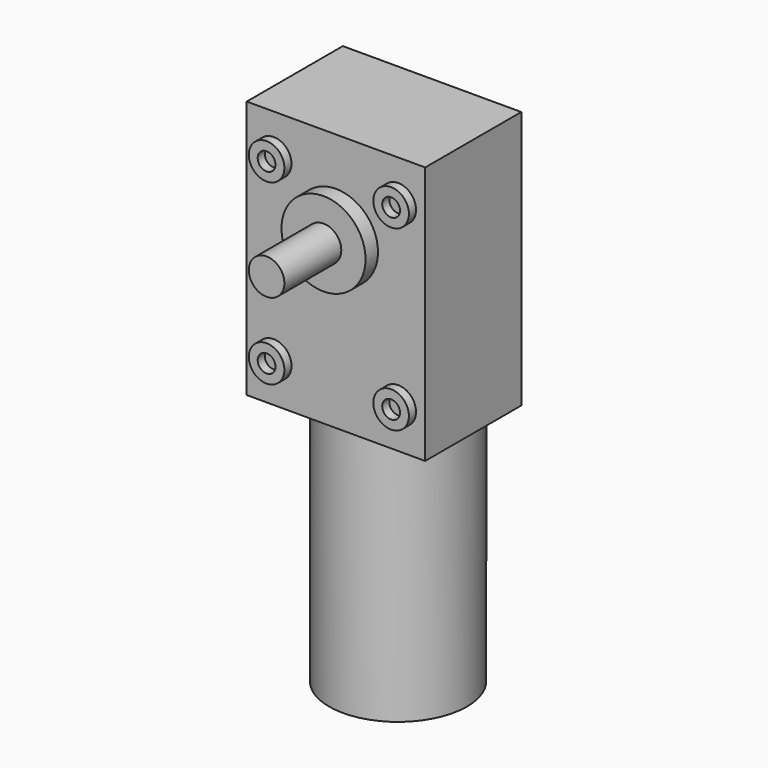
from build123d import *

# Parameters (mm, degrees)
F0_R      = 15.5
F1_DEPTH  = 57.2
F3_DEPTH  = 58.1
F4_R      = 9.45
F5_DEPTH  = 3.5
F5_FACE_R = 9.45
F6_DEPTH  = 34
F7_R      = 4
F8_DEPTH  = 16
F9_R      = 4
F9_R_2    = 2
F10_DEPTH = 2
F11_DEPTH = 29
F12_R     = 6
F13_DEPTH = 2


with BuildPart() as f1:
    # F0 (on Top) → F1 (new body)
    with BuildSketch(Plane.XY):
        Circle(F0_R)
    extrude(amount=F1_DEPTH)

    # F2 (on face) → F3 (join)
    with BuildSketch(Plane.XY.offset(57.2)):
        with BuildLine():
            Line((-12.208501, 9.55), (-20.06, 9.55))
            Line((-20.06, 9.55), (-20.06, -17.45))
            Line((-20.06, -17.45), (20.06, -17.45))
            Line((20.06, -17.45), (20.06, 9.55))
            Line((20.06, 9.55), (12.208501, 9.55))
            ThreePointArc((12.208501, 9.55), (14.65404, 5.050655), (15.5, 0))
            ThreePointArc((15.5, 0), (-5.050655, -14.65404), (-12.208501, 9.55))
        make_face()
        with BuildLine():
            Line((12.208501, 9.55), (-12.208501, 9.55))
            ThreePointArc((-12.208501, 9.55), (-5.050655, -14.65404), (15.5, 0))
            ThreePointArc((15.5, 0), (14.65404, 5.050655), (12.208501, 9.55))
        make_face()
    extrude(amount=F3_DEPTH)

    # F4 (on face) → F5 (join)
    with BuildSketch(Plane.XZ.offset(17.45)):
        with Locations((0, 95.1)):
            Circle(F4_R)
    extrude(amount=F5_DEPTH)

    # F5_face (on face) → F6 (join)
    with BuildSketch(Plane(origin=(0, -20.95, 95.1), x_dir=(1, 0, 0), z_dir=(0, -1, 0))):
        Circle(F5_FACE_R)
    extrude(amount=-F6_DEPTH)

    # F7 (on face) → F8 (join)
    with BuildSketch(Plane.XZ.offset(20.95)):
        with Locations((0, 95.1)):
            Circle(F7_R)
    extrude(amount=F8_DEPTH)

    # F9 (on face) → F10 (join)
    with BuildSketch(Plane.XZ.offset(17.45)):
        with Locations((14, 106.25)):
            Circle(F9_R)
        with Locations((14, 106.25)):
            Circle(F9_R_2, mode=Mode.SUBTRACT)
        with Locations((-14, 106.25)):
            Circle(F9_R)
        with Locations((-14, 106.25)):
            Circle(F9_R_2, mode=Mode.SUBTRACT)
        with Locations((14, 66.25)):
            Circle(F9_R)
        with Locations((14, 66.25)):
            Circle(F9_R_2, mode=Mode.SUBTRACT)
        with Locations((-14, 66.25)):
            Circle(F9_R)
        with Locations((-14, 66.25)):
            Circle(F9_R_2, mode=Mode.SUBTRACT)
    extrude(amount=F10_DEPTH)

    # F9 (on face) → F11 (join)
    with BuildSketch(Plane.XZ.offset(17.45)):
        with Locations((14, 106.25)):
            Circle(F9_R)
        with Locations((14, 106.25)):
            Circle(F9_R_2, mode=Mode.SUBTRACT)
        with Locations((-14, 106.25)):
            Circle(F9_R)
        with Locations((-14, 106.25)):
            Circle(F9_R_2, mode=Mode.SUBTRACT)
        with Locations((14, 66.25)):
            Circle(F9_R)
        with Locations((14, 66.25)):
            Circle(F9_R_2, mode=Mode.SUBTRACT)
        with Locations((-14, 66.25)):
            Circle(F9_R)
        with Locations((-14, 66.25)):
            Circle(F9_R_2, mode=Mode.SUBTRACT)
    extrude(amount=-F11_DEPTH)

    # F12 (on face) → F13 (join)
    with BuildSketch(Plane(origin=(0, 0, 0), x_dir=(1, 0, 0), z_dir=(0, 0, -1))):
        Circle(F12_R)
    extrude(amount=F13_DEPTH)


solid = f1.part
